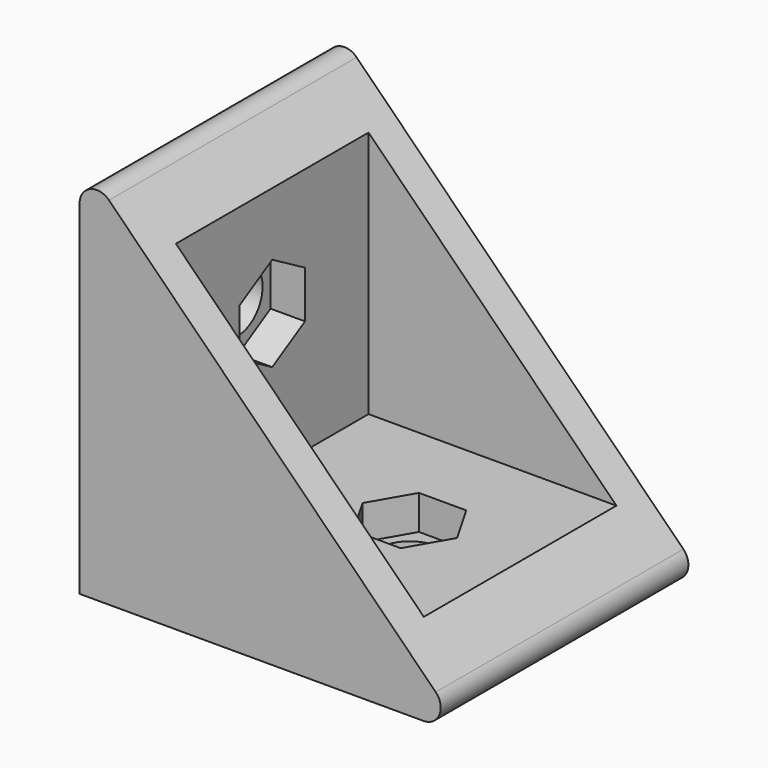
from build123d import *

# Parameters (mm, degrees)
PAD001_DEPTH         = 9
POCKET001_DEPTH      = 7
SKETCH004_R          = 1.8
POCKET002_DEPTH      = 0.001
POCKET002_DEPTH_BACK = 21.001
SKETCH005_R          = 1.8
POCKET003_DEPTH      = 0.001
POCKET003_DEPTH_BACK = 21.001
POCKET004_DEPTH      = 5
POCKET005_DEPTH      = 5


with BuildPart() as part:
    # Sketch002 → Pad001 (new body, symmetric)
    with BuildSketch(Plane.XZ):
        with BuildLine():
            Line((0, 20), (0, 0))
            Line((0, 0), (20, 0))
            ThreePointArc((20, 0), (20.92388, 0.617317), (20.707107, 1.707107))
            Line((1.707107, 20.707107), (20.707107, 1.707107))
            ThreePointArc((1.707107, 20.707107), (0.617317, 20.92388), (0, 20))
        make_face()
    extrude(amount=PAD001_DEPTH, both=True)

    # Sketch003 → Pocket001 (cut, symmetric)
    with BuildSketch(Plane.XZ):
        Polygon((4, 24), (4, 4), (24, 4), align=None)
    extrude(amount=POCKET001_DEPTH, both=True, mode=Mode.SUBTRACT)

    # Sketch004 → Pocket002 (cut, two sides)
    with BuildSketch(Plane.XY) as pocket002_sk:
        with Locations((12, 0)):
            Circle(SKETCH004_R)
    extrude(amount=-POCKET002_DEPTH, mode=Mode.SUBTRACT)
    extrude(pocket002_sk.sketch, amount=POCKET002_DEPTH_BACK, mode=Mode.SUBTRACT)

    # Sketch005 → Pocket003 (cut, two sides)
    with BuildSketch(Plane.YZ) as pocket003_sk:
        with Locations((0, 12)):
            Circle(SKETCH005_R)
    extrude(amount=-POCKET003_DEPTH, mode=Mode.SUBTRACT)
    extrude(pocket003_sk.sketch, amount=POCKET003_DEPTH_BACK, mode=Mode.SUBTRACT)

    # Sketch006 → Pocket004 (cut)
    with BuildSketch(Plane.YZ.offset(2)):
        Polygon((0, 14.75), (-2.38157, 13.375), (-2.38157, 10.625), (0, 9.25), (2.38157, 10.625), (2.38157, 13.375), align=None)
    extrude(amount=POCKET004_DEPTH, mode=Mode.SUBTRACT)

    # Sketch007 → Pocket005 (cut)
    with BuildSketch(Plane.XY.offset(2)):
        Polygon((14.75, 0), (13.375, 2.38157), (10.625, 2.38157), (9.25, 0), (10.625, -2.38157), (13.375, -2.38157), align=None)
    extrude(amount=POCKET005_DEPTH, mode=Mode.SUBTRACT)


solid = part.part
